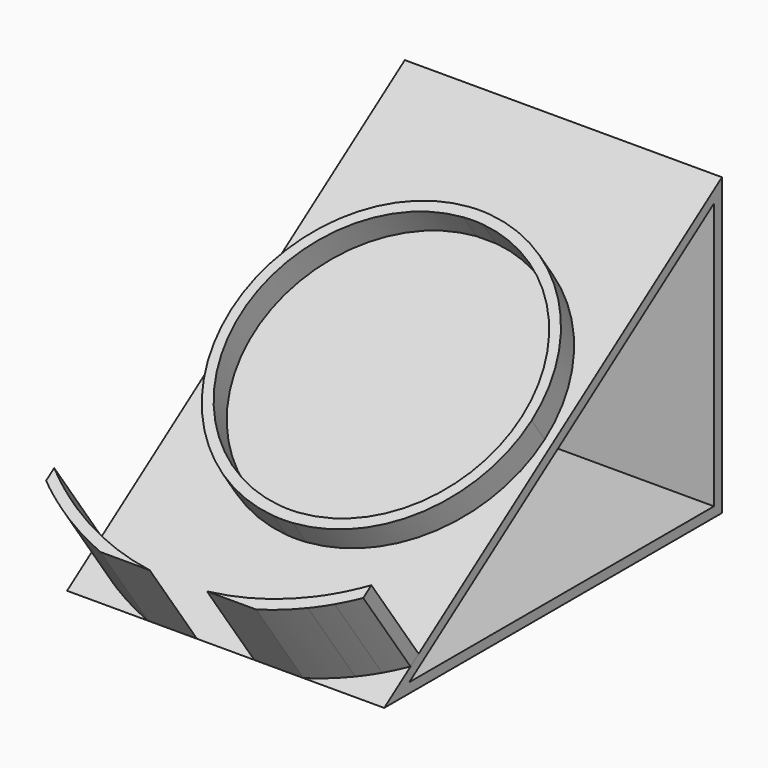
from build123d import *

# Parameters (mm, degrees)
F1_DEPTH = 50.8
F3_DEPTH = 1.5875
F4_DEPTH = 3.175
F5_DEPTH = 4.572
F6_DEPTH = 4.3377795607
F7_DEPTH = 1.5875
F8_DEPTH = 16.51


with BuildPart() as f1:
    # F0 (on Right) → F1 (new body)
    with BuildSketch(Plane.YZ):
        Polygon((-67.6210012561, 0), (0, 0), (0, 47.3487348208), align=None)
        Polygon((-62.5860945073, 1.5875), (-1.5875, 44.2991756942), (-1.5875, 1.5875), align=None, mode=Mode.SUBTRACT)
    extrude(amount=F1_DEPTH)

    # F2 (on face) → F3 (cut, through all)
    with BuildSketch(Plane(origin=(0, -22.2466283573, 31.7714779452), x_dir=(1, 0, 0), z_dir=(0, -0.5735764364, 0.8191520443))):
        with BuildLine():
            Line((26.9875, -38.1309661579), (26.9875, -36.5397555569))
            ThreePointArc((26.9875, -36.5397555569), (25.4, -36.5958814158), (23.8125, -36.5397555569))
            Line((23.8125, -36.5397555569), (23.8125, -38.1309661579))
            ThreePointArc((23.8125, -38.1309661579), (25.4, -38.1833814158), (26.9875, -38.1309661579))
        make_face()
        with BuildLine():
            ThreePointArc((23.8125, 8.3059927254), (25.4, 8.3621185842), (26.9875, 8.3059927254))
            Line((26.9875, 8.3059927254), (26.9875, 9.8972033263))
            ThreePointArc((26.9875, 9.8972033263), (25.4, 9.9496185842), (23.8125, 9.8972033263))
            Line((23.8125, 9.8972033263), (23.8125, 8.3059927254))
        make_face()
    extrude(amount=-F3_DEPTH, mode=Mode.SUBTRACT)

    # F2 (on face) → F6 (cut, through all)
    with BuildSketch(Plane(origin=(0, -22.2466283573, 31.7714779452), x_dir=(1, 0, 0), z_dir=(0, -0.5735764364, 0.8191520443))):
        with BuildLine():
            ThreePointArc((47.625, -49.1983183305), (46.0575649781, -50.1435777696), (44.45, -51.0188507535))
            Line((44.45, -51.0188507535), (44.45, -52.7967220598))
            ThreePointArc((44.45, -52.7967220598), (46.0556790515, -51.9636183315), (47.625, -51.0638968196))
            Line((47.625, -51.0638968196), (47.625, -49.1983183305))
        make_face()
        with BuildLine():
            ThreePointArc((6.35, -51.0188507535), (4.7424350219, -50.1435777696), (3.175, -49.1983183305))
            Line((3.175, -49.1983183305), (3.175, -51.0638968196))
            ThreePointArc((3.175, -51.0638968196), (4.7443209485, -51.9636183315), (6.35, -52.7967220598))
            Line((6.35, -52.7967220598), (6.35, -51.0188507535))
        make_face()
    extrude(amount=-F6_DEPTH, mode=Mode.SUBTRACT)


with BuildPart() as f4:
    # F2 (on face) → F4 (new body)
    with BuildSketch(Plane(origin=(0, -22.2466283573, 31.7714779452), x_dir=(1, 0, 0), z_dir=(0, -0.5735764364, 0.8191520443))):
        with BuildLine():
            ThreePointArc((23.8125, 8.3059927254), (25.4, 8.3621185842), (26.9875, 8.3059927254))
            Line((26.9875, 8.3059927254), (26.9875, 9.8972033263))
            ThreePointArc((26.9875, 9.8972033263), (25.4, 9.9496185842), (23.8125, 9.8972033263))
            Line((23.8125, 9.8972033263), (23.8125, 8.3059927254))
        make_face()
    extrude(amount=-F4_DEPTH)



with BuildPart() as f4b:
    # F2 (on face) → F4, piece 2 (new body)
    with BuildSketch(Plane(origin=(0, -22.2466283573, 31.7714779452), x_dir=(1, 0, 0), z_dir=(0, -0.5735764364, 0.8191520443))):
        with BuildLine():
            Line((26.9875, -38.1309661579), (26.9875, -36.5397555569))
            ThreePointArc((26.9875, -36.5397555569), (25.4, -36.5958814158), (23.8125, -36.5397555569))
            Line((23.8125, -36.5397555569), (23.8125, -38.1309661579))
            ThreePointArc((23.8125, -38.1309661579), (25.4, -38.1833814158), (26.9875, -38.1309661579))
        make_face()
    extrude(amount=-F4_DEPTH)


with BuildPart() as f4_1:
    add(f4.part)

    add(f4b.part)  # F5 merges F4b
    # F2 (on face) → F5 (join)
    with BuildSketch(Plane(origin=(0, -22.2466283573, 31.7714779452), x_dir=(1, 0, 0), z_dir=(0, -0.5735764364, 0.8191520443))):
        with BuildLine():
            ThreePointArc((26.9875, 8.3059927254), (41.8467451719, 1.2066303962), (47.879, -14.1168814158))
            ThreePointArc((47.879, -14.1168814158), (41.8467451719, -29.4403932277), (26.9875, -36.5397555569))
            Line((26.9875, -36.5397555569), (26.9875, -38.1309661579))
            ThreePointArc((26.9875, -38.1309661579), (42.969888887, -30.5636265877), (49.4665, -14.1168814158))
            ThreePointArc((49.4665, -14.1168814158), (42.969888887, 2.3298637562), (26.9875, 9.8972033263))
            Line((26.9875, 9.8972033263), (26.9875, 8.3059927254))
        make_face()
        with BuildLine():
            Line((26.9875, -38.1309661579), (26.9875, -36.5397555569))
            ThreePointArc((26.9875, -36.5397555569), (25.4, -36.5958814158), (23.8125, -36.5397555569))
            Line((23.8125, -36.5397555569), (23.8125, -38.1309661579))
            ThreePointArc((23.8125, -38.1309661579), (25.4, -38.1833814158), (26.9875, -38.1309661579))
        make_face()
        with BuildLine():
            ThreePointArc((23.8125, -36.5397555569), (2.921, -14.1168814158), (23.8125, 8.3059927254))
            Line((23.8125, 8.3059927254), (23.8125, 9.8972033263))
            ThreePointArc((23.8125, 9.8972033263), (1.3335, -14.1168814158), (23.8125, -38.1309661579))
            Line((23.8125, -38.1309661579), (23.8125, -36.5397555569))
        make_face()
        with BuildLine():
            ThreePointArc((23.8125, 8.3059927254), (25.4, 8.3621185842), (26.9875, 8.3059927254))
            Line((26.9875, 8.3059927254), (26.9875, 9.8972033263))
            ThreePointArc((26.9875, 9.8972033263), (25.4, 9.9496185842), (23.8125, 9.8972033263))
            Line((23.8125, 9.8972033263), (23.8125, 8.3059927254))
        make_face()
    extrude(amount=F5_DEPTH)


with BuildPart() as f7:
    # F2 (on face) → F7 (new body)
    with BuildSketch(Plane(origin=(0, -22.2466283573, 31.7714779452), x_dir=(1, 0, 0), z_dir=(0, -0.5735764364, 0.8191520443))):
        with BuildLine():
            ThreePointArc((47.625, -49.1983183305), (46.0575649781, -50.1435777696), (44.45, -51.0188507535))
            Line((44.45, -51.0188507535), (44.45, -52.7967220598))
            ThreePointArc((44.45, -52.7967220598), (46.0556790515, -51.9636183315), (47.625, -51.0638968196))
            Line((47.625, -51.0638968196), (47.625, -49.1983183305))
        make_face()
    extrude(amount=-F7_DEPTH)



with BuildPart() as f7b:
    # F2 (on face) → F7, piece 2 (new body)
    with BuildSketch(Plane(origin=(0, -22.2466283573, 31.7714779452), x_dir=(1, 0, 0), z_dir=(0, -0.5735764364, 0.8191520443))):
        with BuildLine():
            ThreePointArc((6.35, -51.0188507535), (4.7424350219, -50.1435777696), (3.175, -49.1983183305))
            Line((3.175, -49.1983183305), (3.175, -51.0638968196))
            ThreePointArc((3.175, -51.0638968196), (4.7443209485, -51.9636183315), (6.35, -52.7967220598))
            Line((6.35, -52.7967220598), (6.35, -51.0188507535))
        make_face()
    extrude(amount=-F7_DEPTH)


with BuildPart() as f7_1:
    add(f7.part)

    add(f7b.part)  # F8 merges F7b
    # F2 (on face) → F8 (join)
    with BuildSketch(Plane(origin=(0, -22.2466283573, 31.7714779452), x_dir=(1, 0, 0), z_dir=(0, -0.5735764364, 0.8191520443))):
        with BuildLine():
            ThreePointArc((3.175, -49.1983183305), (1.561509725, -48.1225312759), (0, -46.9725938719))
            Line((0, -46.9725938719), (0, -48.9575555231))
            ThreePointArc((0, -48.9575555231), (1.5642217525, -50.0458147089), (3.175, -51.0638968196))
            Line((3.175, -51.0638968196), (3.175, -49.1983183305))
        make_face()
        with BuildLine():
            ThreePointArc((6.35, -51.0188507535), (4.7424350219, -50.1435777696), (3.175, -49.1983183305))
            Line((3.175, -49.1983183305), (3.175, -51.0638968196))
            ThreePointArc((3.175, -51.0638968196), (4.7443209485, -51.9636183315), (6.35, -52.7967220598))
            Line((6.35, -52.7967220598), (6.35, -51.0188507535))
        make_face()
        with BuildLine():
            ThreePointArc((20.8139105983, -55.3918814158), (13.3813881898, -53.8687469211), (6.35, -51.0188507535))
            Line((6.35, -51.0188507535), (6.35, -52.7967220598))
            ThreePointArc((6.35, -52.7967220598), (9.5885504366, -54.2296055186), (12.9337677204, -55.3918814158))
            Line((12.9337677204, -55.3918814158), (20.8139105983, -55.3918814158))
        make_face()
        with BuildLine():
            ThreePointArc((44.45, -51.0188507535), (37.4186118102, -53.8687469211), (29.9860894017, -55.3918814158))
            Line((29.9860894017, -55.3918814158), (37.8662322796, -55.3918814158))
            ThreePointArc((37.8662322796, -55.3918814158), (41.2114495634, -54.2296055186), (44.45, -52.7967220598))
            Line((44.45, -52.7967220598), (44.45, -51.0188507535))
        make_face()
        with BuildLine():
            ThreePointArc((47.625, -49.1983183305), (46.0575649781, -50.1435777696), (44.45, -51.0188507535))
            Line((44.45, -51.0188507535), (44.45, -52.7967220598))
            ThreePointArc((44.45, -52.7967220598), (46.0556790515, -51.9636183315), (47.625, -51.0638968196))
            Line((47.625, -51.0638968196), (47.625, -49.1983183305))
        make_face()
        with BuildLine():
            Line((50.8, -48.9575555231), (50.8, -46.9725938719))
            ThreePointArc((50.8, -46.9725938719), (49.238490275, -48.1225312759), (47.625, -49.1983183305))
            Line((47.625, -49.1983183305), (47.625, -51.0638968196))
            ThreePointArc((47.625, -51.0638968196), (49.2357782475, -50.0458147089), (50.8, -48.9575555231))
        make_face()
    extrude(amount=F8_DEPTH)


solid = Compound([f1.part, f4_1.part, f7_1.part])
